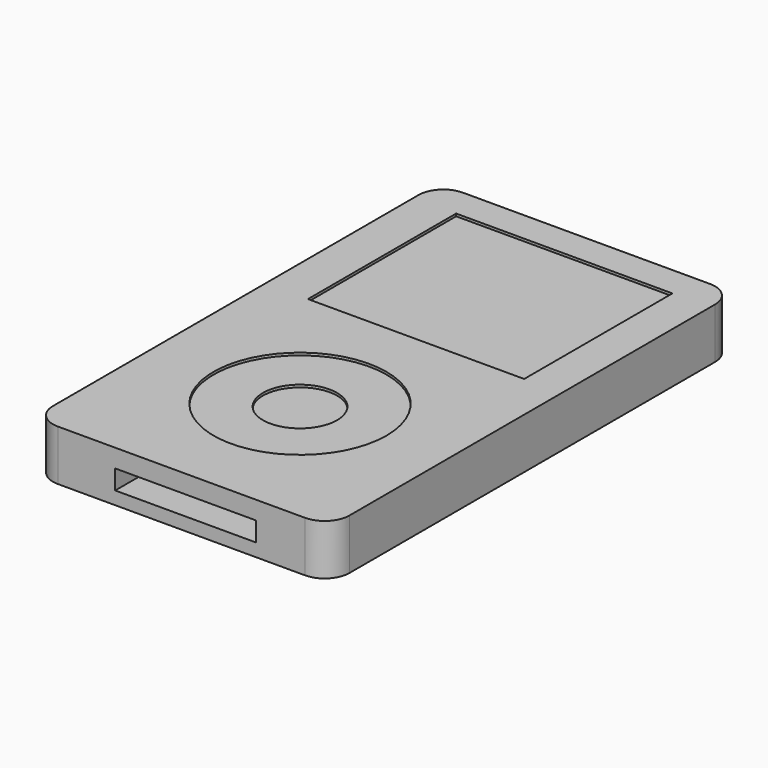
from build123d import *

# Parameters (mm, degrees)
F0_W     = 60.96
F0_H     = 104.14
F0_R     = 17.78
F0_W_2   = 44.47266
F0_H_2   = 38.1
F1_DEPTH = 10.414
F0_R_2   = 7.62
F2_DEPTH = 9.906
F3_DEPTH = 9.398
F4_W     = 16.026364
F4_H     = 2.950886
F5_DEPTH = 5.08
F4_R     = 2.481019
F6_DEPTH = 12.7
F7_R     = 5.08
F8_W     = 28.981276
F8_H     = 3.993245
F9_DEPTH = 12.7


with BuildPart() as f1:
    # F0 (on Top) → F1 (new body)
    with BuildSketch(Plane.XY):
        with Locations((-2.628636, -5.107779)):
            Rectangle(F0_W, F0_H)
        with Locations((-2.628636, -26.697779)):
            Circle(F0_R, mode=Mode.SUBTRACT)
        with Locations((-2.133989, 21.562221)):
            Rectangle(F0_W_2, F0_H_2, mode=Mode.SUBTRACT)
    extrude(amount=F1_DEPTH)

    # F0 (on Top) → F2 (join)
    with BuildSketch(Plane.XY):
        with Locations((-2.133989, 21.562221)):
            Rectangle(F0_W_2, F0_H_2)
        with Locations((-2.628636, -26.697779)):
            Circle(F0_R)
        with Locations((-2.628636, -26.697779)):
            Circle(F0_R_2, mode=Mode.SUBTRACT)
    extrude(amount=F2_DEPTH)

    # F0 (on Top) → F3 (join)
    with BuildSketch(Plane.XY):
        with Locations((-2.628636, -26.697779)):
            Circle(F0_R_2)
    extrude(amount=F3_DEPTH)

    # F4 (on face) → F5 (cut)
    with BuildSketch(Plane(origin=(0, 46.962221, 0), x_dir=(-1, 0, 0), z_dir=(0, 1, 0))):
        with Locations((-14.351097, 5.28416)):
            Rectangle(F4_W, F4_H)
    extrude(amount=-F5_DEPTH, mode=Mode.SUBTRACT)

    # F4 (on face) → F6 (cut)
    with BuildSketch(Plane(origin=(0, 46.962221, 0), x_dir=(-1, 0, 0), z_dir=(0, 1, 0))):
        with Locations((25.215648, 5.702663)):
            Circle(F4_R)
    extrude(amount=-F6_DEPTH, mode=Mode.SUBTRACT)

    # F7
    f7_edges = [f1.edges().sort_by_distance(p)[0] for p in [
        (-33.108636, 46.962221, 5.207),
        (27.851364, 46.962221, 5.207),
        (27.851364, -57.177779, 5.207),
        (-33.108636, -57.177779, 5.207),
    ]]
    fillet(f7_edges, radius=F7_R)

    # F8 (on face) → F9 (cut)
    with BuildSketch(Plane.XZ.offset(57.177779)):
        with Locations((-1.75176, 4.668219)):
            Rectangle(F8_W, F8_H)
    extrude(amount=-F9_DEPTH, mode=Mode.SUBTRACT)


solid = f1.part
